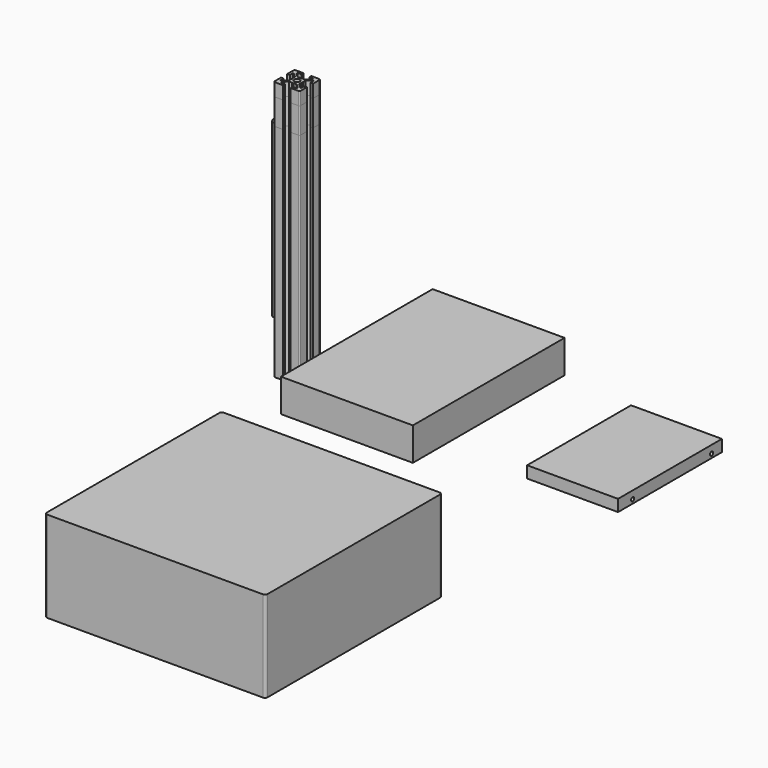
from build123d import *

# Parameters (mm, degrees)
F0_R      = 4
F1_DEPTH  = 132
F0_W      = 101.6
F0_H      = 146
F2_DEPTH  = 25.4
F3_DEPTH  = 151.5
F0_W_2    = 70
F0_H_2    = 100
F4_DEPTH  = 9
F6_D      = 3
F7_DEPTH  = 70
F0_R_2    = 2.1
F8_DEPTH  = 200
F9_DEPTH  = 190
F10_DEPTH = 170


with BuildPart() as f1:
    # F0 (on Top) → F1 (new body)
    with BuildSketch(Plane.XY):
        with Locations((-57.4538707733, 54.2196780443)):
            Circle(F0_R)
    extrude(amount=F1_DEPTH)


with BuildPart() as f2:
    # F0 (on Top) → F2 (new body)
    with BuildSketch(Plane.XY):
        with Locations((74.5432718277, 27.7742307186)):
            Rectangle(F0_W, F0_H)
    extrude(amount=F2_DEPTH)


with BuildPart() as f3:
    # F0 (on Top) → F3 (new body)
    with BuildSketch(Plane.XY):
        with Locations((-40.8823490143, 54.2196780443)):
            Circle(F0_R)
    extrude(amount=F3_DEPTH)


with BuildPart() as f4:
    # F0 (on Top) → F4 (new body)
    with BuildSketch(Plane.XY):
        with Locations((226.7365193367, 31.7544817924)):
            Rectangle(F0_W_2, F0_H_2)
    extrude(amount=F4_DEPTH)

    # F6 (through all)
    with Locations(Plane.YZ.offset(261.7365193367)):
        with Locations((-4.2455182076, 3), (71.7544817924, 3)):
            Hole(F6_D / 2)


with BuildPart() as f7:
    # F0 (on Top) → F7 (new body)
    with BuildSketch(Plane.XY):
        with BuildLine():
            Line((245.8458333254, -170.2013778687), (79.8458333254, -170.2013778687))
            ThreePointArc((79.8458333254, -170.2013778687), (78.431619763, -170.7871643063), (77.8458333254, -172.2013778687))
            Line((77.8458333254, -172.2013778687), (77.8458333254, -338.2013778687))
            ThreePointArc((77.8458333254, -338.2013778687), (78.431619763, -339.615591431), (79.8458333254, -340.2013778687))
            Line((79.8458333254, -340.2013778687), (245.8458333254, -340.2013778687))
            ThreePointArc((245.8458333254, -340.2013778687), (247.2600468878, -339.615591431), (247.8458333254, -338.2013778687))
            Line((247.8458333254, -338.2013778687), (247.8458333254, -172.2013778687))
            ThreePointArc((247.8458333254, -172.2013778687), (247.2600468878, -170.7871643063), (245.8458333254, -170.2013778687))
        make_face()
    extrude(amount=F7_DEPTH)


with BuildPart() as f8:
    # F0 (on Top) → F8 (new body)
    with BuildSketch(Plane.XY):
        with BuildLine():
            Line((-8, -6), (-8, -3))
            Line((-8, -3), (-10, -3))
            Line((-10, -3), (-10, -9))
            ThreePointArc((-10, -9), (-9.7071067812, -9.7071067812), (-9, -10))
            Line((-9, -10), (-3, -10))
            Line((-3, -10), (-3, -8))
            Line((-3, -8), (-6, -8))
            Line((-6, -8), (-6, -7.06066))
            Line((-6, -7.06066), (-2.93934, -4))
            Line((-2.93934, -4), (-0.519615, -4))
            Line((-0.519615, -4), (0, -3.7))
            Line((0, -3.7), (0.519615, -4))
            Line((0.519615, -4), (2.93934, -4))
            Line((2.93934, -4), (6, -7.06066))
            Line((6, -7.06066), (6, -8))
            Line((6, -8), (3, -8))
            Line((3, -8), (3, -10))
            Line((3, -10), (9, -10))
            ThreePointArc((9, -10), (9.7071067812, -9.7071067812), (10, -9))
            Line((10, -9), (10, -3))
            Line((10, -3), (8, -3))
            Line((8, -3), (8, -6))
            Line((8, -6), (7.06066, -6))
            Line((7.06066, -6), (4, -2.93934))
            Line((4, -2.93934), (4, -0.519615))
            Line((4, -0.519615), (3.7, 0))
            Line((3.7, 0), (4, 0.519615))
            Line((4, 0.519615), (4, 2.93934))
            Line((4, 2.93934), (7.06066, 6))
            Line((7.06066, 6), (8, 6))
            Line((8, 6), (8, 3))
            Line((8, 3), (10, 3))
            Line((10, 3), (10, 9))
            ThreePointArc((10, 9), (9.7071067812, 9.7071067812), (9, 10))
            Line((9, 10), (3, 10))
            Line((3, 10), (3, 8))
            Line((3, 8), (6, 8))
            Line((6, 8), (6, 7.06066))
            Line((6, 7.06066), (2.93934, 4))
            Line((2.93934, 4), (0.519615, 4))
            Line((0.519615, 4), (0, 3.7))
            Line((0, 3.7), (-0.519615, 4))
            Line((-0.519615, 4), (-2.93934, 4))
            Line((-2.93934, 4), (-6, 7.06066))
            Line((-6, 7.06066), (-6, 8))
            Line((-6, 8), (-3, 8))
            Line((-3, 8), (-3, 10))
            Line((-3, 10), (-9, 10))
            ThreePointArc((-9, 10), (-9.7071067812, 9.7071067812), (-10, 9))
            Line((-10, 9), (-10, 3))
            Line((-10, 3), (-8, 3))
            Line((-8, 3), (-8, 6))
            Line((-8, 6), (-7.06066, 6))
            Line((-7.06066, 6), (-4, 2.93934))
            Line((-4, 2.93934), (-4, 0.519615))
            Line((-4, 0.519615), (-3.7, 0))
            Line((-3.7, 0), (-4, -0.519615))
            Line((-4, -0.519615), (-4, -2.93934))
            Line((-4, -2.93934), (-7.06066, -6))
            Line((-7.06066, -6), (-8, -6))
        make_face()
        Circle(F0_R_2, mode=Mode.SUBTRACT)
    extrude(amount=F8_DEPTH)


with BuildPart() as f9:
    # F0 (on Top) → F9 (new body)
    with BuildSketch(Plane.XY):
        with BuildLine():
            Line((-8, -6), (-8, -3))
            Line((-8, -3), (-10, -3))
            Line((-10, -3), (-10, -9))
            ThreePointArc((-10, -9), (-9.7071067812, -9.7071067812), (-9, -10))
            Line((-9, -10), (-3, -10))
            Line((-3, -10), (-3, -8))
            Line((-3, -8), (-6, -8))
            Line((-6, -8), (-6, -7.06066))
            Line((-6, -7.06066), (-2.93934, -4))
            Line((-2.93934, -4), (-0.519615, -4))
            Line((-0.519615, -4), (0, -3.7))
            Line((0, -3.7), (0.519615, -4))
            Line((0.519615, -4), (2.93934, -4))
            Line((2.93934, -4), (6, -7.06066))
            Line((6, -7.06066), (6, -8))
            Line((6, -8), (3, -8))
            Line((3, -8), (3, -10))
            Line((3, -10), (9, -10))
            ThreePointArc((9, -10), (9.7071067812, -9.7071067812), (10, -9))
            Line((10, -9), (10, -3))
            Line((10, -3), (8, -3))
            Line((8, -3), (8, -6))
            Line((8, -6), (7.06066, -6))
            Line((7.06066, -6), (4, -2.93934))
            Line((4, -2.93934), (4, -0.519615))
            Line((4, -0.519615), (3.7, 0))
            Line((3.7, 0), (4, 0.519615))
            Line((4, 0.519615), (4, 2.93934))
            Line((4, 2.93934), (7.06066, 6))
            Line((7.06066, 6), (8, 6))
            Line((8, 6), (8, 3))
            Line((8, 3), (10, 3))
            Line((10, 3), (10, 9))
            ThreePointArc((10, 9), (9.7071067812, 9.7071067812), (9, 10))
            Line((9, 10), (3, 10))
            Line((3, 10), (3, 8))
            Line((3, 8), (6, 8))
            Line((6, 8), (6, 7.06066))
            Line((6, 7.06066), (2.93934, 4))
            Line((2.93934, 4), (0.519615, 4))
            Line((0.519615, 4), (0, 3.7))
            Line((0, 3.7), (-0.519615, 4))
            Line((-0.519615, 4), (-2.93934, 4))
            Line((-2.93934, 4), (-6, 7.06066))
            Line((-6, 7.06066), (-6, 8))
            Line((-6, 8), (-3, 8))
            Line((-3, 8), (-3, 10))
            Line((-3, 10), (-9, 10))
            ThreePointArc((-9, 10), (-9.7071067812, 9.7071067812), (-10, 9))
            Line((-10, 9), (-10, 3))
            Line((-10, 3), (-8, 3))
            Line((-8, 3), (-8, 6))
            Line((-8, 6), (-7.06066, 6))
            Line((-7.06066, 6), (-4, 2.93934))
            Line((-4, 2.93934), (-4, 0.519615))
            Line((-4, 0.519615), (-3.7, 0))
            Line((-3.7, 0), (-4, -0.519615))
            Line((-4, -0.519615), (-4, -2.93934))
            Line((-4, -2.93934), (-7.06066, -6))
            Line((-7.06066, -6), (-8, -6))
        make_face()
        Circle(F0_R_2, mode=Mode.SUBTRACT)
    extrude(amount=F9_DEPTH)


with BuildPart() as f10:
    # F0 (on Top) → F10 (new body)
    with BuildSketch(Plane.XY):
        with BuildLine():
            Line((-8, -6), (-8, -3))
            Line((-8, -3), (-10, -3))
            Line((-10, -3), (-10, -9))
            ThreePointArc((-10, -9), (-9.7071067812, -9.7071067812), (-9, -10))
            Line((-9, -10), (-3, -10))
            Line((-3, -10), (-3, -8))
            Line((-3, -8), (-6, -8))
            Line((-6, -8), (-6, -7.06066))
            Line((-6, -7.06066), (-2.93934, -4))
            Line((-2.93934, -4), (-0.519615, -4))
            Line((-0.519615, -4), (0, -3.7))
            Line((0, -3.7), (0.519615, -4))
            Line((0.519615, -4), (2.93934, -4))
            Line((2.93934, -4), (6, -7.06066))
            Line((6, -7.06066), (6, -8))
            Line((6, -8), (3, -8))
            Line((3, -8), (3, -10))
            Line((3, -10), (9, -10))
            ThreePointArc((9, -10), (9.7071067812, -9.7071067812), (10, -9))
            Line((10, -9), (10, -3))
            Line((10, -3), (8, -3))
            Line((8, -3), (8, -6))
            Line((8, -6), (7.06066, -6))
            Line((7.06066, -6), (4, -2.93934))
            Line((4, -2.93934), (4, -0.519615))
            Line((4, -0.519615), (3.7, 0))
            Line((3.7, 0), (4, 0.519615))
            Line((4, 0.519615), (4, 2.93934))
            Line((4, 2.93934), (7.06066, 6))
            Line((7.06066, 6), (8, 6))
            Line((8, 6), (8, 3))
            Line((8, 3), (10, 3))
            Line((10, 3), (10, 9))
            ThreePointArc((10, 9), (9.7071067812, 9.7071067812), (9, 10))
            Line((9, 10), (3, 10))
            Line((3, 10), (3, 8))
            Line((3, 8), (6, 8))
            Line((6, 8), (6, 7.06066))
            Line((6, 7.06066), (2.93934, 4))
            Line((2.93934, 4), (0.519615, 4))
            Line((0.519615, 4), (0, 3.7))
            Line((0, 3.7), (-0.519615, 4))
            Line((-0.519615, 4), (-2.93934, 4))
            Line((-2.93934, 4), (-6, 7.06066))
            Line((-6, 7.06066), (-6, 8))
            Line((-6, 8), (-3, 8))
            Line((-3, 8), (-3, 10))
            Line((-3, 10), (-9, 10))
            ThreePointArc((-9, 10), (-9.7071067812, 9.7071067812), (-10, 9))
            Line((-10, 9), (-10, 3))
            Line((-10, 3), (-8, 3))
            Line((-8, 3), (-8, 6))
            Line((-8, 6), (-7.06066, 6))
            Line((-7.06066, 6), (-4, 2.93934))
            Line((-4, 2.93934), (-4, 0.519615))
            Line((-4, 0.519615), (-3.7, 0))
            Line((-3.7, 0), (-4, -0.519615))
            Line((-4, -0.519615), (-4, -2.93934))
            Line((-4, -2.93934), (-7.06066, -6))
            Line((-7.06066, -6), (-8, -6))
        make_face()
        Circle(F0_R_2, mode=Mode.SUBTRACT)
    extrude(amount=F10_DEPTH)


solid = Compound([f1.part, f2.part, f3.part, f4.part, f7.part, f8.part, f9.part, f10.part])
